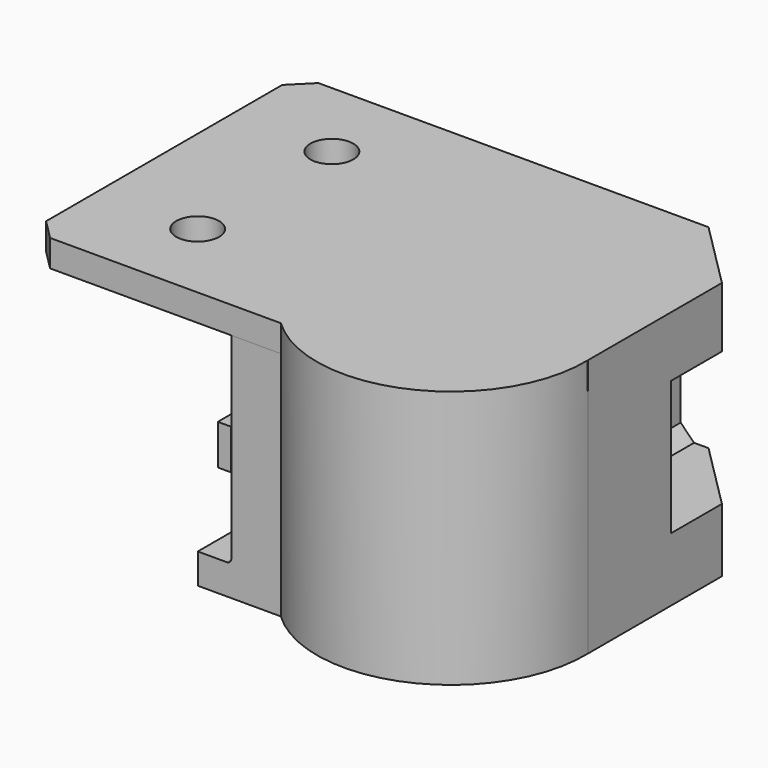
from build123d import *

# Parameters (mm, degrees)
CYLINDER007_R     = 3.2
CYLINDER007_DEPTH = 33
CYLINDER008_R     = 3.2
CYLINDER008_DEPTH = 10
CYLINDER006_R     = 3.2
CYLINDER006_DEPTH = 10
BOX005_W          = 41.15
BOX005_H          = 35.48
BOX005_DEPTH      = 20
BOX004_W          = 41.15
BOX004_H          = 49.98
BOX004_DEPTH      = 34.5
CHAMFER033_SIZE   = 15
CYLINDER005_R     = 20
CYLINDER005_DEPTH = 38.5
BOX_W             = 71.15
BOX_H             = 50
BOX_DEPTH         = 4
CHAMFER_SIZE      = 15
BOX003_W          = 2
BOX003_H          = 34.52
BOX003_DEPTH      = 6
BOX024_W          = 5
BOX024_H          = 49.98
BOX024_DEPTH      = 4.5
FILLET001_R       = 0.7
CHAMFER034_SIZE   = 10
CHAMFER035_SIZE   = 1
CHAMFER036_SIZE   = 3
CHAMFER037_SIZE   = 2


with BuildPart() as cylinder001:
    # Cylinder007 → Cylinder007 (new body)
    with BuildSketch(Plane(origin=(0, 72, 45), x_dir=(0, 0, -1), z_dir=(1, 0, 0))):
        Circle(CYLINDER007_R)
    extrude(amount=CYLINDER007_DEPTH)


with BuildPart() as cylinder002:
    # Cylinder008 → Cylinder008 (new body)
    with BuildSketch(Plane(origin=(-15, 67.5, 60), x_dir=(1, 0, 0), z_dir=(0, 0, 1))):
        Circle(CYLINDER008_R)
    extrude(amount=CYLINDER008_DEPTH)


with BuildPart() as fusion008014:
    # Cylinder006 → Cylinder006 (new body)
    with BuildSketch(Plane(origin=(-15, 42.5, 60), x_dir=(1, 0, 0), z_dir=(0, 0, 1))):
        Circle(CYLINDER006_R)
    extrude(amount=CYLINDER006_DEPTH)

    # Fusion008014: union Cylinder002
    add(cylinder002.part)


with BuildPart() as cube005:
    # Box005 → Box005 (new body)
    with BuildSketch(Plane(origin=(27, 61.52, 35), x_dir=(1, 0, 0), z_dir=(0, 0, 1))):
        with Locations((20.575, 17.74)):
            Rectangle(BOX005_W, BOX005_H)
    extrude(amount=BOX005_DEPTH)


with BuildPart() as chamfer033:
    # Box004 → Box004 (new body)
    with BuildSketch(Plane(origin=(0, 30.02, 25.5), x_dir=(1, 0, 0), z_dir=(0, 0, 1))):
        with Locations((20.575, 24.99)):
            Rectangle(BOX004_W, BOX004_H)
    extrude(amount=BOX004_DEPTH)

    # Chamfer033
    chamfer033_edges = [chamfer033.edges().sort_by_distance(p)[0] for p in [
        (41.15, 30.02, 42.75),
    ]]
    chamfer(chamfer033_edges, length=CHAMFER033_SIZE)


with BuildPart() as round_body:
    # Cylinder005 → Cylinder005 (new body)
    with BuildSketch(Plane(origin=(21.15, 44.52, 25.5), x_dir=(1, 0, 0), z_dir=(0, 0, 1))):
        Circle(CYLINDER005_R)
    extrude(amount=CYLINDER005_DEPTH)


with BuildPart() as chamfer_body:
    # Box → Box (new body)
    with BuildSketch(Plane(origin=(-30, 30, 60), x_dir=(1, 0, 0), z_dir=(0, 0, 1))):
        with Locations((35.575, 25)):
            Rectangle(BOX_W, BOX_H)
    extrude(amount=BOX_DEPTH)

    # Chamfer
    chamfer_edges = [chamfer_body.edges().sort_by_distance(p)[0] for p in [
        (41.15, 30, 62),
    ]]
    chamfer(chamfer_edges, length=CHAMFER_SIZE)


with BuildPart() as cube003:
    # Box003 → Box003 (new body)
    with BuildSketch(Plane(origin=(-2, 30, 42), x_dir=(1, 0, 0), z_dir=(0, 0, 1))):
        with Locations((1, 17.26)):
            Rectangle(BOX003_W, BOX003_H)
    extrude(amount=BOX003_DEPTH)


with BuildPart() as cut002003021003:
    # Box024 → Box024 (new body)
    with BuildSketch(Plane(origin=(-5, 30.02, 25.5), x_dir=(1, 0, 0), z_dir=(0, 0, 1))):
        with Locations((2.5, 24.99)):
            Rectangle(BOX024_W, BOX024_H)
    extrude(amount=BOX024_DEPTH)

    # Fusion: union Chamfer033, round-body, Chamfer body, Cube003
    add(chamfer033.part)
    add(round_body.part)
    add(chamfer_body.part)
    add(cube003.part)

    # Cut: cut Cube005
    add(cube005.part, mode=Mode.SUBTRACT)

    # Fillet001
    fillet001_edges = [cut002003021003.edges().sort_by_distance(p)[0] for p in [
        (0, 55.01, 30),
    ]]
    fillet(fillet001_edges, radius=FILLET001_R)

    # Chamfer034
    chamfer034_edges = [cut002003021003.edges().sort_by_distance(p)[0] for p in [
        (41.15, 80, 57.5),
        (41.15, 80, 30.25),
        (41.15, 80, 62),
    ]]
    chamfer(chamfer034_edges, length=CHAMFER034_SIZE)

    # Chamfer035
    chamfer035_edges = [cut002003021003.edges().sort_by_distance(p)[0] for p in [
        (41.15, 61.52, 45),
    ]]
    chamfer(chamfer035_edges, length=CHAMFER035_SIZE)

    # Chamfer036
    chamfer036_edges = [cut002003021003.edges().sort_by_distance(p)[0] for p in [
        (-30, 80, 62),
        (-30, 30, 62),
    ]]
    chamfer(chamfer036_edges, length=CHAMFER036_SIZE)

    # Cut002003021002: cut Fusion008014
    add(fusion008014.part, mode=Mode.SUBTRACT)

    # Chamfer037
    chamfer037_edges = [cut002003021003.edges().sort_by_distance(p)[0] for p in [
        (27, 70.76, 55),
        (27, 70.76, 35),
        (27, 61.52, 45),
    ]]
    chamfer(chamfer037_edges, length=CHAMFER037_SIZE)

    # Cut002003021003: cut Cylinder001
    add(cylinder001.part, mode=Mode.SUBTRACT)


solid = cut002003021003.part
